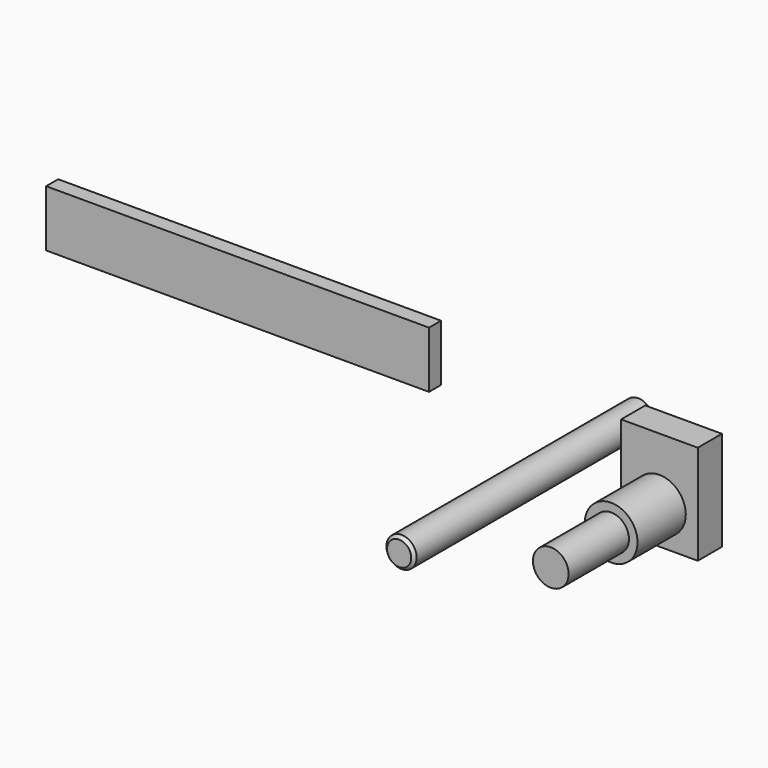
from build123d import *

# Parameters (mm, degrees)
F0_R          = 25.4
F1_DEPTH      = 254
F2_SIZE       = 5.08
F3_W          = 128.986925
F3_H          = 167.5428
F3_R          = 44.336129
F4_DEPTH      = 25.4
F3_R_2        = 30.00479
F5_DEPTH      = 127
F5_DEPTH_BACK = 25.4
F6_DEPTH      = 254
F6_DEPTH_BACK = 25.4
F7_W          = 644.401014
F7_H          = 95.173076
F8_DEPTH      = 12.7


with BuildPart() as f1:
    # F0 (on Front) → F1 (new body, symmetric)
    with BuildSketch(Plane.XZ):
        Circle(F0_R)
    extrude(amount=F1_DEPTH, both=True)

    # F2
    f2_edges = [f1.edges().sort_by_distance(p)[0] for p in [
        (-25.4, 254, 0),
        (-25.4, -254, 0),
    ]]
    chamfer(f2_edges, length=F2_SIZE)


with BuildPart() as f4:
    # F3 (on Front) → F4 (new body, symmetric)
    with BuildSketch(Plane.XZ):
        with Locations((255.169779, 83.7714)):
            Rectangle(F3_W, F3_H)
        with Locations((255.169779, 62.039908)):
            Circle(F3_R, mode=Mode.SUBTRACT)
    extrude(amount=F4_DEPTH, both=True)

    # F3 (on Front) → F5 (join, two sides)
    with BuildSketch(Plane.XZ) as f5_sk:
        with Locations((255.169779, 62.039908)):
            Circle(F3_R)
        with Locations((255.169779, 62.039908)):
            Circle(F3_R_2, mode=Mode.SUBTRACT)
    extrude(amount=F5_DEPTH)
    extrude(f5_sk.sketch, amount=-F5_DEPTH_BACK)

    # F3 (on Front) → F6 (join, two sides)
    with BuildSketch(Plane.XZ) as f6_sk:
        with Locations((255.169779, 62.039908)):
            Circle(F3_R_2)
    extrude(amount=F6_DEPTH)
    extrude(f6_sk.sketch, amount=-F6_DEPTH_BACK)


with BuildPart() as f8:
    # F7 (on Front) → F8 (new body, symmetric)
    with BuildSketch(Plane.XZ):
        with Locations((-464.960128, 142.263919)):
            Rectangle(F7_W, F7_H)
    extrude(amount=F8_DEPTH, both=True)


solid = Compound([f1.part, f4.part, f8.part])
